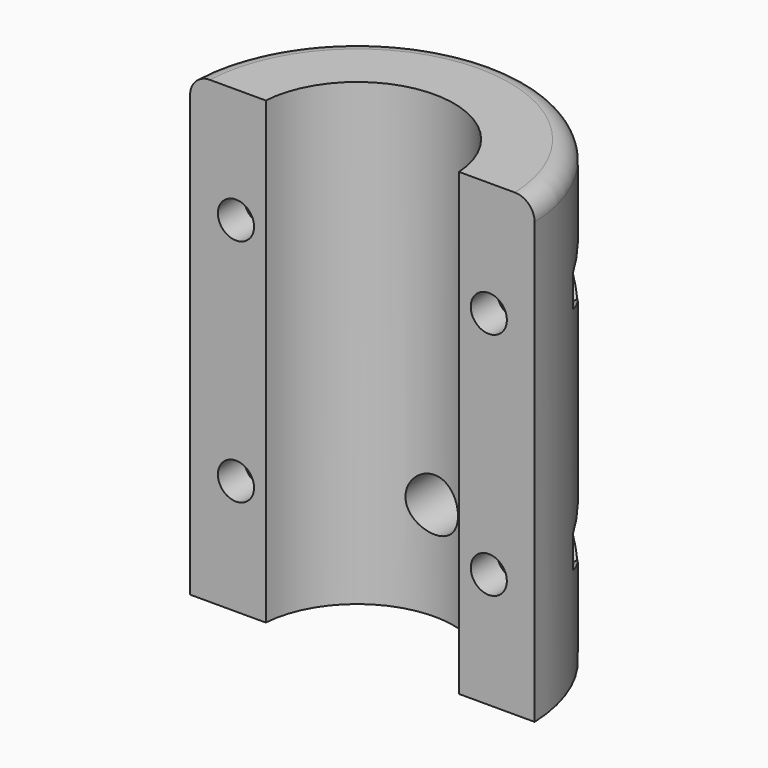
from build123d import *

# Parameters (mm, degrees)
PAD_DEPTH       = 70
SKETCH001_R     = 2.75
SKETCH001_R_2   = 4
POCKET_DEPTH    = 25.251
SKETCH002_R     = 4.75
POCKET001_DEPTH = 20.251
FILLET_R        = 3


with BuildPart() as part:
    # Sketch → Pad (new body)
    with BuildSketch(Plane.XY):
        with BuildLine():
            ThreePointArc((14.716063, 0), (0, 13.75), (-14.716063, 0))
            Line((-26.230945, 0), (-14.716063, 0))
            ThreePointArc((26.230945, 0), (0, 25.25), (-26.230945, 0))
            Line((14.716063, 0), (26.230945, 0))
        make_face()
    extrude(amount=PAD_DEPTH)

    # Sketch001 (on Face2 of Pad) → Pocket (cut, through all)
    with BuildSketch(Plane.XZ):
        with Locations((-19.25, 17.5)):
            Circle(SKETCH001_R)
        with Locations((19.25, 17.5)):
            Circle(SKETCH001_R)
        with Locations((0, 15)):
            Circle(SKETCH001_R_2)
        with Locations((19.25, 52.5)):
            Circle(SKETCH001_R)
        with Locations((-19.25, 52.5)):
            Circle(SKETCH001_R)
    extrude(amount=-POCKET_DEPTH, mode=Mode.SUBTRACT)

    # Sketch002 (on DatumPlane) → Pocket001 (cut, through all)
    with BuildSketch(Plane.XZ.offset(-5)):
        with Locations((-19.25, 17.5)):
            Circle(SKETCH002_R)
        with Locations((-19.25, 52.5)):
            Circle(SKETCH002_R)
        Polygon((19.25, 12.592523), (23.5, 15.046261), (23.5, 19.953739), (19.25, 22.407477), (15, 19.953739), (15, 15.046261), align=None)
        Polygon((19.25, 47.592523), (23.5, 50.046261), (23.5, 54.953739), (19.25, 57.407477), (15, 54.953739), (15, 50.046261), align=None)
    extrude(amount=-POCKET001_DEPTH, mode=Mode.SUBTRACT)

    # Fillet
    fillet_edges = [part.edges().sort_by_distance(p)[0] for p in [
        (0, 25.25, 70),
    ]]
    fillet(fillet_edges, radius=FILLET_R)


solid = part.part
